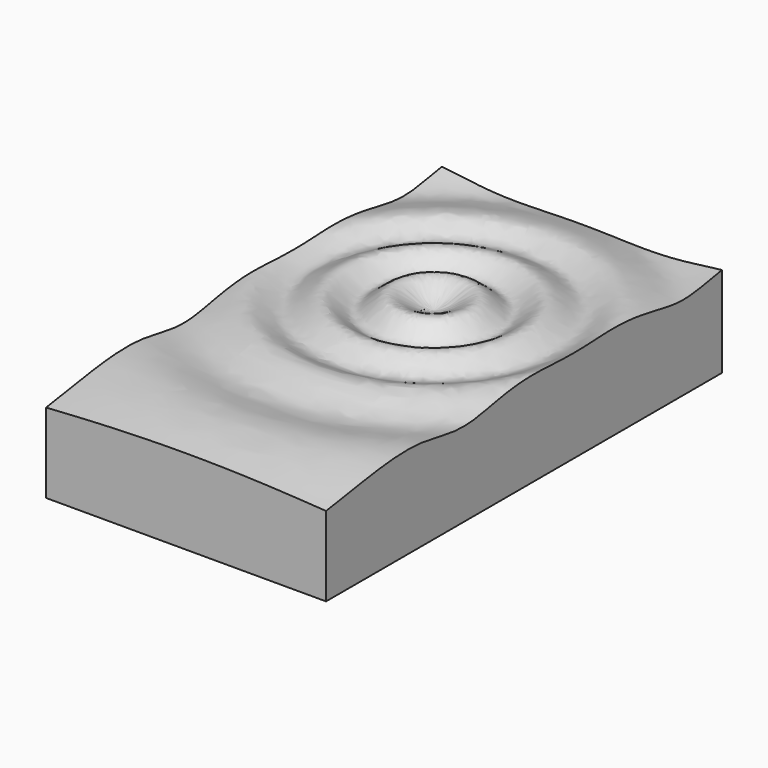
from build123d import *

# Parameters (mm, degrees)
F0_W     = 43
F0_H     = 76
F1_DEPTH = 12
F5_DEPTH = 25


with BuildPart() as f1:
    # F0 (on Top) → F1 (new body)
    with BuildSketch(Plane.XY):
        Rectangle(F0_W, F0_H)
    extrude(amount=F1_DEPTH)

    # F3 (on Right) → F4 (revolve)
    with BuildSketch(Plane.YZ):
        with BuildLine():
            Line((-44.1283285618, 12), (9.5, 12))
            Line((9.5, 12), (9.5, 13))
            add(Edge.make_bspline(
                [(9.5, 13), (7.2259709093, 12.9839292355), (3.8143336998, 17.3923027091), (0.0559037939, 10.903183264), (-3.8044043801, 16.6240806281), (-8.5884909723, 11.3816701472), (-12.7677373796, 15.9904534972), (-20.2609269277, 11.5681742154), (-27.8215516911, 15.5335878921), (-38.0023366763, 12.8770661415), (-44.1283285618, 12)],
                knots=[0, 0, 0, 0, 0.1201180453, 0.2223436831, 0.3231585069, 0.43149146, 0.5353595882, 0.666400511, 0.8015197875, 1, 1, 1, 1], degree=3))
        make_face()
    revolve(axis=Axis((0, 9.5, 12.5), (0, 0, 1)))

    # F5 (cut): a face of the model
    f5_faces = [f1.faces().sort_by_distance(p)[0] for p in [
        (0, 61.6114903702, 12),
    ]]
    extrude(f5_faces, amount=-F5_DEPTH, mode=Mode.SUBTRACT)


solid = f1.part
